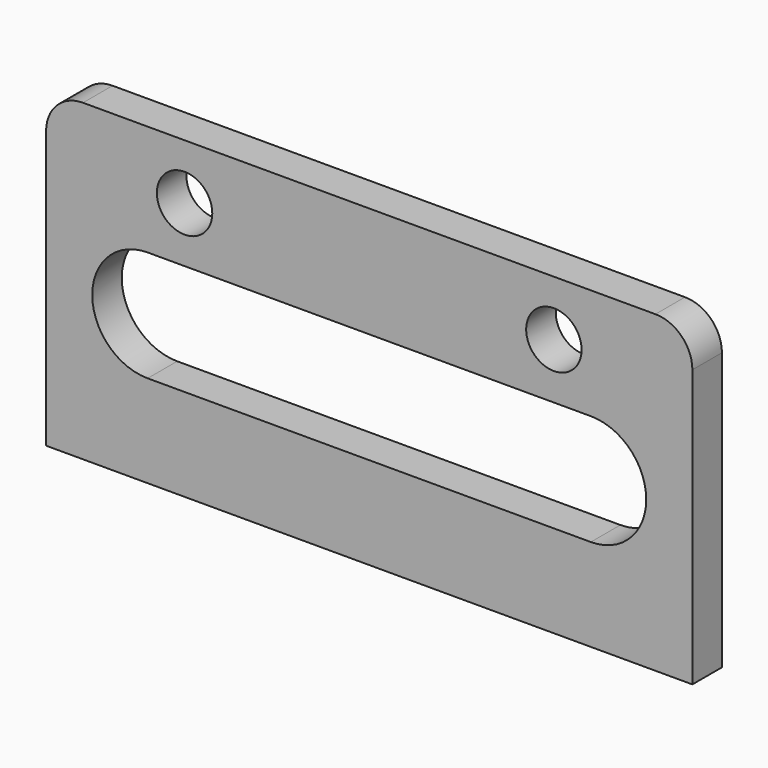
from build123d import *

# Parameters (mm, degrees)
F0_R     = 1.5
F1_DEPTH = 2


with BuildPart() as f1:
    # F0 (on Front) → F1 (new body)
    with BuildSketch(Plane.XZ):
        with BuildLine():
            Line((34.5, 17), (3.5, 17))
            ThreePointArc((3.5, 17), (2.085786, 16.414214), (1.5, 15))
            Line((1.5, 15), (1.5, 0))
            Line((1.5, 0), (36.5, 0))
            Line((36.5, 0), (36.5, 15))
            ThreePointArc((36.5, 15), (35.914214, 16.414214), (34.5, 17))
        make_face()
        with BuildLine():
            ThreePointArc((7, 5), (4, 8), (7, 11))
            Line((7, 11), (31, 11))
            ThreePointArc((31, 11), (34, 8), (31, 5))
            Line((31, 5), (7, 5))
        make_face(mode=Mode.SUBTRACT)
        with Locations((9, 14)):
            Circle(F0_R, mode=Mode.SUBTRACT)
        with Locations((29, 14)):
            Circle(F0_R, mode=Mode.SUBTRACT)
    extrude(amount=F1_DEPTH)


solid = f1.part
